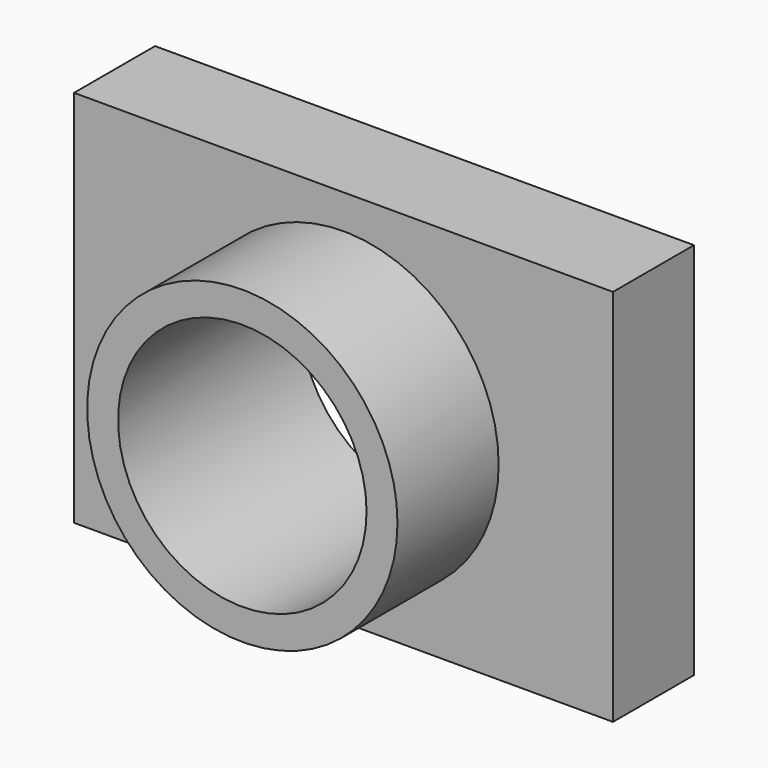
from build123d import *

# Parameters (mm, degrees)
F0_W     = 135.262012
F0_H     = 95.015392
F1_DEPTH = 25.4
F2_R     = 38.939289
F3_DEPTH = 31.75
F4_R     = 31.180051
F5_DEPTH = 76.2


with BuildPart() as f1:
    # F0 (on Front) → F1 (new body)
    with BuildSketch(Plane.XZ):
        Rectangle(F0_W, F0_H)
    extrude(amount=F1_DEPTH)

    # F2 (on face) → F3 (join)
    with BuildSketch(Plane.XZ.offset(25.4)):
        Circle(F2_R)
    extrude(amount=F3_DEPTH)

    # F4 (on Front) → F5 (cut)
    with BuildSketch(Plane.XZ):
        Circle(F4_R)
    extrude(amount=F5_DEPTH, mode=Mode.SUBTRACT)


solid = f1.part
